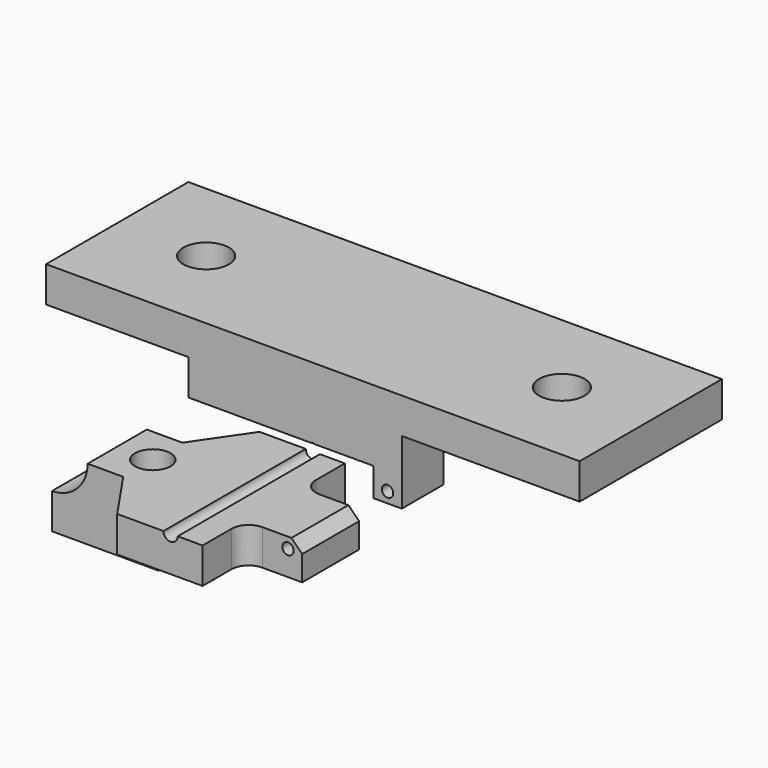
from build123d import *

# Parameters (mm, degrees)
F0_R      = 0.8
F1_DEPTH  = 25
F2_R      = 3.2
F3_DEPTH  = 4.5
F4_W      = 75
F4_H      = 25
F4_R      = 3.2
F5_DEPTH  = 5
F6_W      = 10.4
F6_H      = 4
F7_DEPTH  = 25
F8_R      = 0.8
F9_DEPTH  = 25
F11_DEPTH = 5.0111704883
F13_D     = 5
F14_W     = 7.3
F14_H     = 4.9888295117
F15_DEPTH = 25
F17_DEPTH = 5.0111704883
F18_R     = 0.5


with BuildPart() as f1:
    # F0 (on Front) → F1 (new body)
    with BuildSketch(Plane.XZ):
        with BuildLine():
            Line((5.7870310192, -10.4857282235), (14.1809650045, -10.4857282235))
            Line((14.1809650045, -10.4857282235), (14.1809650045, -14.4857282235))
            Line((14.1809650045, -14.4857282235), (18.1809650045, -14.4857282235))
            Line((18.1809650045, -14.4857282235), (18.1809650045, -5.4857282235))
            Line((18.1809650045, -5.4857282235), (-11.8190349955, -5.4857282235))
            Line((-11.8190349955, -5.4857282235), (-11.8190349955, -10.4857282235))
            Line((-11.8190349955, -10.4857282235), (5.5748989899, -10.4857282235))
            Line((5.5748989899, -10.4857282235), (5.6604079271, -10.4002192823))
            ThreePointArc((5.6604079271, -10.4002192823), (5.6809650045, -10.3917042618), (5.701522082, -10.4002192823))
            Line((5.701522082, -10.4002192823), (5.7870310192, -10.4857282235))
        make_face()
        with Locations((16.1809650045, -12.9857282235)):
            Circle(F0_R, mode=Mode.SUBTRACT)
    extrude(amount=F1_DEPTH)

    # F2 (on face) → F3 (cut)
    with BuildSketch(Plane(origin=(0, 0, -10.4857282235), x_dir=(1, 0, 0), z_dir=(0, 0, -1))):
        with Locations((-6.8190349955, 12.5)):
            Circle(F2_R)
    extrude(amount=-F3_DEPTH, mode=Mode.SUBTRACT)

    # F4 (on face) → F5 (join)
    with BuildSketch(Plane.XY.offset(-5.4857282235)):
        with Locations((5.6809650045, -12.5)):
            Rectangle(F4_W, F4_H)
        with Locations((-19.3190349955, -12.5)):
            Circle(F4_R, mode=Mode.SUBTRACT)
        with Locations((30.6809650045, -12.5)):
            Circle(F4_R, mode=Mode.SUBTRACT)
    extrude(amount=F5_DEPTH)

    # F6 (on face) → F7 (cut)
    with BuildSketch(Plane(origin=(14.1809650045, 0, 0), x_dir=(0, -1, 0), z_dir=(-1, 0, 0))):
        with Locations((12.5, -12.4857282235)):
            Rectangle(F6_W, F6_H)
    extrude(amount=-F7_DEPTH, mode=Mode.SUBTRACT)

    # F18
    f18_edges = [f1.edges().sort_by_distance(p)[0] for p in [
        (-10.019035, -12.5, -5.985728),
    ]]
    fillet(f18_edges, radius=F18_R)


with BuildPart() as f9:
    # F8 (on face) → F9 (new body)
    with BuildSketch(Plane.XZ.offset(25)):
        with BuildLine():
            ThreePointArc((6.6809650045, -11.4800873139), (5.6809650045, -12.4800873139), (4.6809650045, -11.4800873139))
            Line((4.6809650045, -11.4800873139), (-11.8190349955, -11.4800873139))
            ThreePointArc((-11.8190349955, -11.4800873139), (-13.2835010895, -15.0156212198), (-16.8190349955, -16.4800873139))
            Line((-16.8190349955, -16.4800873139), (-16.8190349955, -21.4800873139))
            Line((-16.8190349955, -21.4800873139), (-1.8190349955, -21.4800873139))
            Line((-1.8190349955, -21.4800873139), (-1.8190349955, -16.4912578022))
            Line((-1.8190349955, -16.4912578022), (18.1809650045, -16.4912578022))
            Line((18.1809650045, -16.4912578022), (18.1809650045, -12.9857282235))
            Line((18.1809650045, -12.9857282235), (16.6753240949, -11.4800873139))
            Line((16.6753240949, -11.4800873139), (6.6809650045, -11.4800873139))
        make_face()
        with Locations((16.1809650045, -12.9857282235)):
            Circle(F8_R, mode=Mode.SUBTRACT)
    extrude(amount=F9_DEPTH)

    # F10 (on face) → F11 (cut, through all)
    with BuildSketch(Plane(origin=(0, 0, -16.4912578022), x_dir=(1, 0, 0), z_dir=(0, 0, -1))):
        with BuildLine():
            Line((12.5845505148, 42.5), (18.1809650045, 42.5))
            Line((18.1809650045, 42.5), (18.1809650045, 50))
            Line((18.1809650045, 50), (10.1809650045, 50))
            Line((10.1809650045, 50), (10.1809650045, 44.9035855103))
            ThreePointArc((10.1809650045, 44.9035855103), (10.8849589013, 43.2039938968), (12.5845505148, 42.5))
        make_face()
        with BuildLine():
            Line((18.1809650045, 25), (18.1809650045, 32.5))
            Line((18.1809650045, 32.5), (12.5845505148, 32.5))
            ThreePointArc((12.5845505148, 32.5), (10.8849589013, 31.7960061032), (10.1809650045, 30.0964144897))
            Line((10.1809650045, 30.0964144897), (10.1809650045, 25))
            Line((10.1809650045, 25), (18.1809650045, 25))
        make_face()
    extrude(amount=-F11_DEPTH, mode=Mode.SUBTRACT)

    # F13 (through all)
    with Locations(Plane(origin=(0, 0, -21.4800873139), x_dir=(1, 0, 0), z_dir=(0, 0, -1))):
        with Locations((-6.8190349955, 37.5)):
            Hole(F13_D / 2)

    # F14 (on face) → F15 (cut)
    with BuildSketch(Plane.YZ.offset(-1.8190349955)):
        with Locations((-28.65, -18.985672558)):
            Rectangle(F14_W, F14_H)
        with Locations((-46.35, -18.985672558)):
            Rectangle(F14_W, F14_H)
    extrude(amount=-F15_DEPTH, mode=Mode.SUBTRACT)

    # F16 (on face) → F17 (cut, through all)
    with BuildSketch(Plane(origin=(0, 0, -16.4912578022), x_dir=(1, 0, 0), z_dir=(0, 0, -1))):
        Polygon((-16.8190349955, 50), (-16.8190349955, 42.7), (-6.8190349955, 42.7), (-1.8190349955, 50), align=None)
        Polygon((-6.8190349955, 32.3), (-16.8190349955, 32.3), (-16.8190349955, 25), (-1.8190349955, 25), align=None)
    extrude(amount=-F17_DEPTH, mode=Mode.SUBTRACT)


solid = Compound([f1.part, f9.part])
